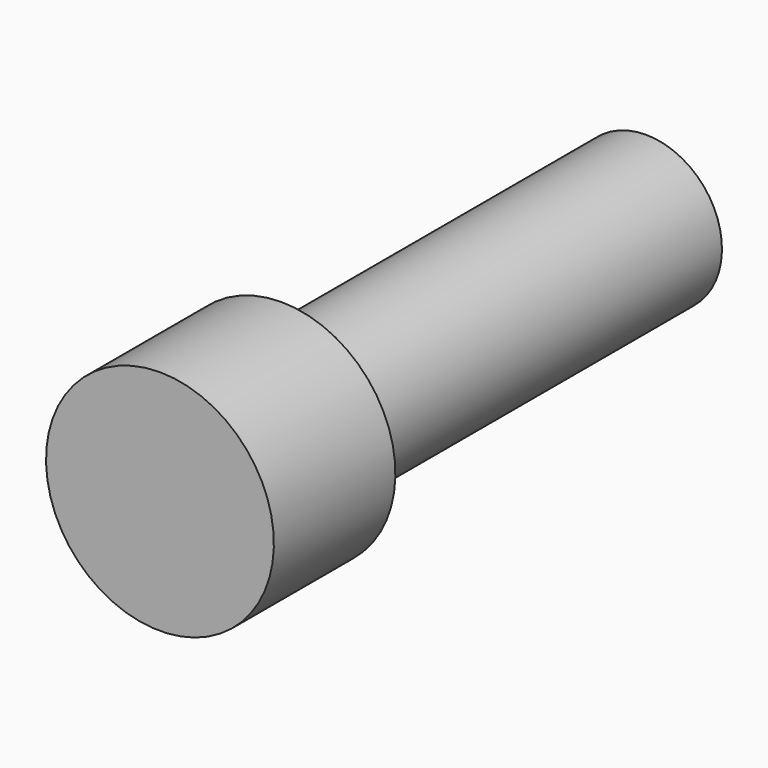
from build123d import *


with BuildPart() as part:
    # Sketch → Revolution (revolve)
    with BuildSketch(Plane.YZ):
        Polygon((-2, 0), (-2, 1.5), (0, 1.5), (0, 1), (6, 1), (6, 0), align=None)
    revolve(axis=Axis((0, 0, 0), (0, 1, 0)))


solid = part.part
